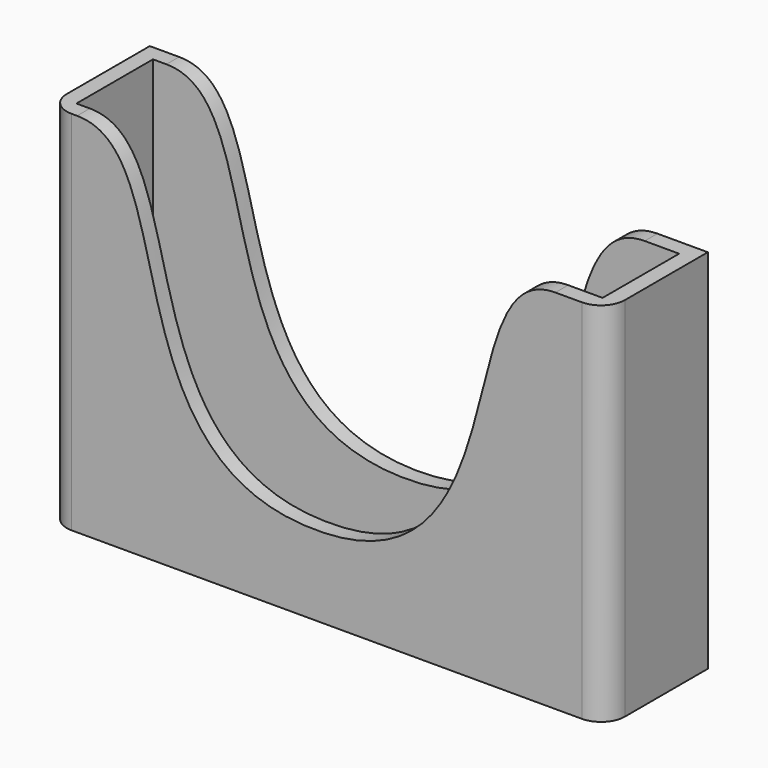
from build123d import *

# Parameters (mm, degrees)
F0_W     = 70
F0_H     = 16
F1_DEPTH = 46
F2_T     = -2
F4_DEPTH = 100
F5_R     = 3


with BuildPart() as f1:
    # F0 (on Top) → F1 (new body)
    with BuildSketch(Plane.XY):
        with Locations((1.3183606789, 0)):
            Rectangle(F0_W, F0_H)
    extrude(amount=F1_DEPTH)

    # F2
    f2_openings = [f1.faces().sort_by_distance(p)[0] for p in [
        (1.318361, 0, 46),
    ]]
    offset(amount=F2_T, openings=f2_openings)

    # F3 (on face) → F4 (cut)
    with BuildSketch(Plane.XZ.offset(8)):
        with BuildLine():
            Line((0, 46), (-30, 46))
            add(Edge.make_bspline(
                [(-30, 46), (-16.5072491299, 46), (-26.0927335684, 10), (0, 10)],
                knots=[0, 0, 0, 0, 46.8614980554, 46.8614980554, 46.8614980554, 46.8614980554], degree=3))
            add(Edge.make_bspline(
                [(30, 46), (16.5072491299, 46), (26.0927335684, 10), (0, 10)],
                knots=[0, 0, 0, 0, 46.8614980554, 46.8614980554, 46.8614980554, 46.8614980554], degree=3))
            Line((30, 46), (0, 46))
        make_face()
    extrude(amount=-F4_DEPTH, mode=Mode.SUBTRACT)

    # F5
    f5_edges = [f1.edges().sort_by_distance(p)[0] for p in [
        (-33.681639, -8, 23),
        (36.318361, -8, 23),
    ]]
    fillet(f5_edges, radius=F5_R)


solid = f1.part
